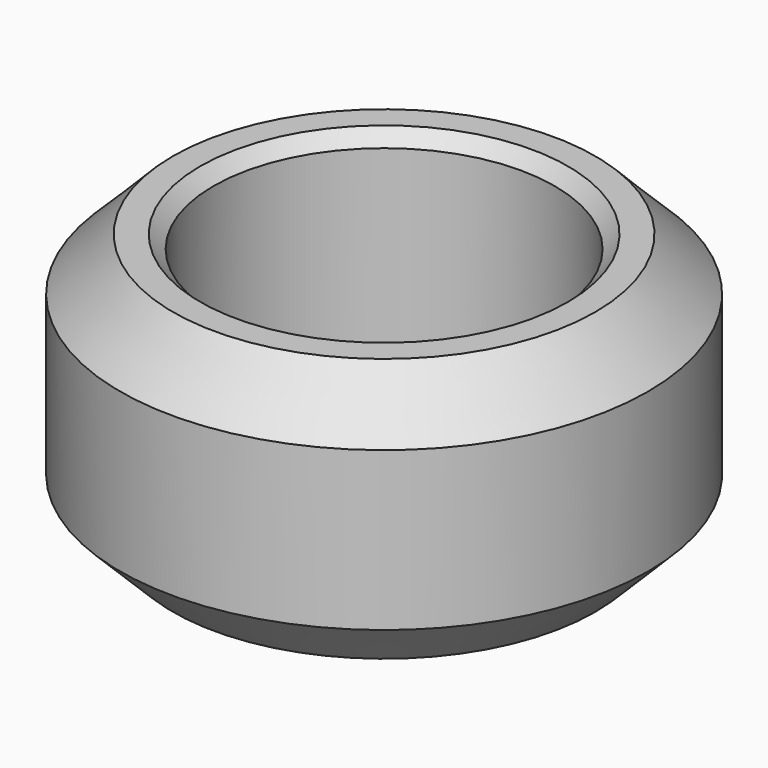
from build123d import *

# Parameters (mm, degrees)
F0_R     = 10
F2_DEPTH = 10
F1_R     = 6.465
F3_DEPTH = 12
F4_R     = 6.465
F6_DEPTH = 2
F7_D     = 10
F8_SIZE2 = 2
F8_SIZE  = 2
F9_SIZE2 = 0.5
F9_SIZE  = 0.5


with BuildPart() as f2:
    # F0 (on Top) → F2 (new body)
    with BuildSketch(Plane.XY):
        Circle(F0_R)
    extrude(amount=F2_DEPTH)

    # F1 (on Top) → F3 (cut)
    with BuildSketch(Plane.XY):
        Circle(F1_R)
    extrude(amount=F3_DEPTH, mode=Mode.SUBTRACT)

    # F4 (on face) → F6 (join)
    with BuildSketch(Plane.XY):
        Circle(F4_R)
    extrude(amount=F6_DEPTH)

    # F7 (through all)
    with Locations(Plane(origin=(0, 0, 0), x_dir=(1, 0, 0), z_dir=(0, 0, -1))):
        with Locations((0, 0)):
            Hole(F7_D / 2)

    # F8
    f8_edges = [f2.edges().sort_by_distance(p)[0] for p in [
        (-10, 0, 10),
        (-10, 0, 0),
    ]]
    chamfer(f8_edges, length=F8_SIZE, length2=F8_SIZE2)

    # F9
    f9_edges = [f2.edges().sort_by_distance(p)[0] for p in [
        (-6.465, 0, 10),
    ]]
    chamfer(f9_edges, length=F9_SIZE, length2=F9_SIZE2)


solid = f2.part
